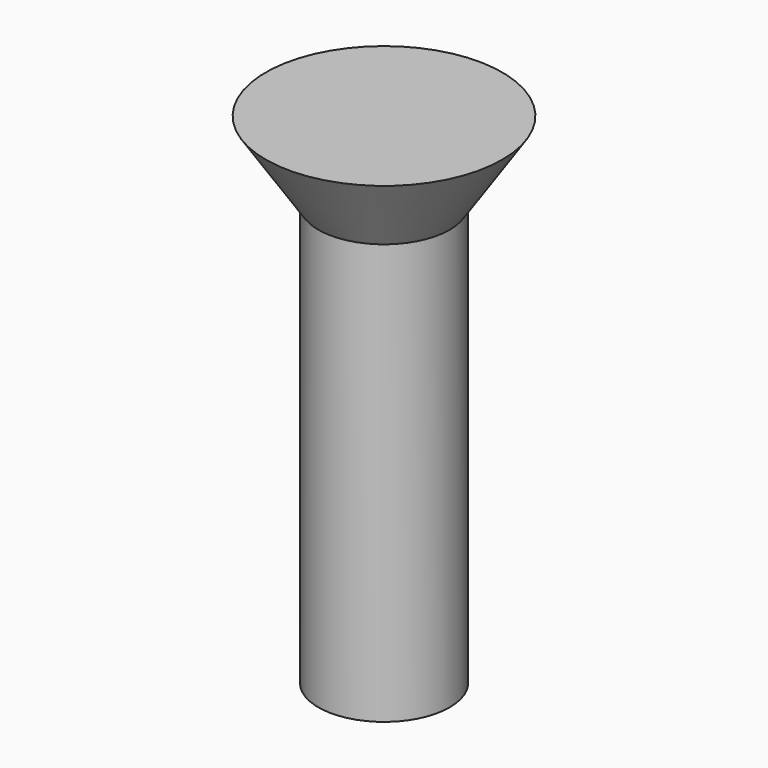
from build123d import *

# Parameters (mm, degrees)
CYLINDER011_R                   = 2.5
CYLINDER011_DEPTH               = 16
FUSION001018017_PLACEMENT_ANGLE = 180
CLONE015_PLACEMENT_ANGLE        = 180


with BuildPart() as cone003:
    # Cone003 → Cone003 (revolve)
    with BuildSketch(Plane(origin=(0, 0, -3), x_dir=(1, 0, 0), z_dir=(0, -1, 0))):
        Polygon((0, 0), (4.5, 0), (2.5, 3), (0, 3), align=None)
    revolve(axis=Axis((0, 0, -3), (0, 0, 1)))


with BuildPart() as obj1:
    # Cylinder011 → Cylinder011 (new body)
    with BuildSketch(Plane.XY):
        Circle(CYLINDER011_R)
    extrude(amount=CYLINDER011_DEPTH)

    # Fusion001018017: union Cone003
    add(cone003.part)


with BuildPart() as obj1_1:
    # Fusion001018017 placement: moved
    add(obj1.part.moved(Location((45, 15, 21))).rotate(Axis((45, 15, 21), (0, 1, 0)), FUSION001018017_PLACEMENT_ANGLE))


with BuildPart() as obj1_2:
    # Clone015 placement: moved
    add(obj1_1.part.moved(Location((115, 110, 0))).rotate(Axis((115, 110, 0), (0, 0, 1)), CLONE015_PLACEMENT_ANGLE))


with BuildPart() as obj1_3:
    # Clone027 placement: moved
    add(obj1_2.part.moved(Location((270, 0, 0))))


solid = obj1_3.part
